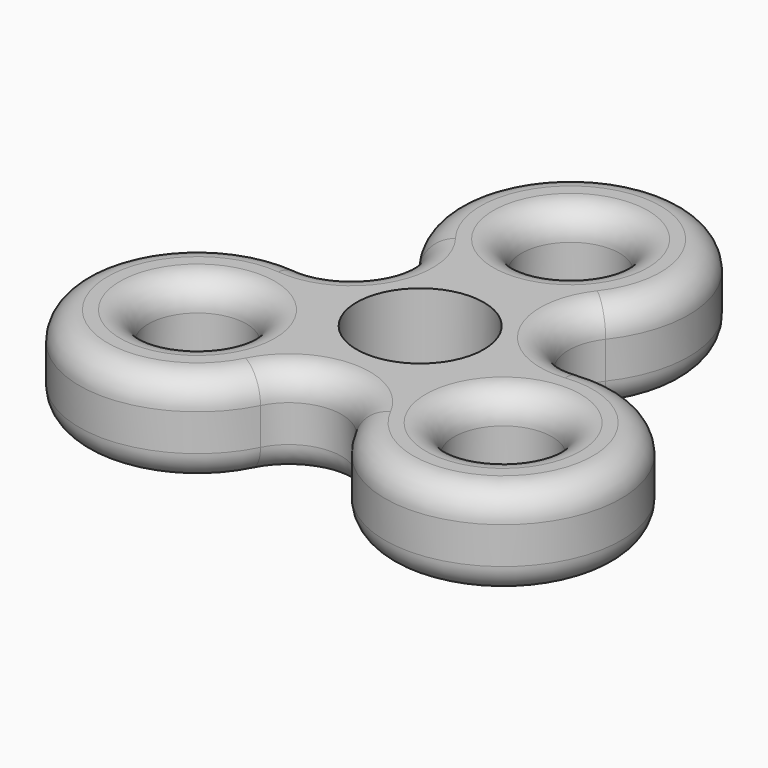
from build123d import *

# Parameters (mm, degrees)
F0_R     = 8.788788
F0_R_2   = 11.418333
F1_DEPTH = 16.764
F2_R     = 5.08
F3_R     = 5.08


with BuildPart() as f1:
    # F0 (on Top) → F1 (new body)
    with BuildSketch(Plane.XY):
        with BuildLine():
            ThreePointArc((25.195273, -9.435075), (15.911037, -4.603877), (16.722326, 5.830648))
            ThreePointArc((16.722326, 5.830648), (0, 40.058313), (-16.722326, 5.830648))
            ThreePointArc((-16.722326, 5.830648), (-15.911037, -4.603877), (-25.195273, -9.435075))
            ThreePointArc((-25.195273, -9.435075), (-46.011034, -40.679336), (-8.472947, -40.053467))
            ThreePointArc((-8.472947, -40.053467), (0, -34.833829), (8.472947, -40.053467))
            ThreePointArc((8.472947, -40.053467), (46.011034, -40.679336), (25.195273, -9.435075))
        make_face()
        with Locations((-27.406188, -30.518243)):
            Circle(F0_R, mode=Mode.SUBTRACT)
        with Locations((0, -14.857566)):
            Circle(F0_R_2, mode=Mode.SUBTRACT)
        with Locations((27.406188, -30.518243)):
            Circle(F0_R, mode=Mode.SUBTRACT)
        with Locations((0, 18.859537)):
            Circle(F0_R, mode=Mode.SUBTRACT)
    extrude(amount=F1_DEPTH)

    # F2
    f2_edges = [f1.edges().sort_by_distance(p)[0] for p in [
        (0, 40.058313, 16.764),
        (46.011034, -40.679336, 0),
    ]]
    fillet(f2_edges, radius=F2_R)

    # F3
    f3_edges = [f1.edges().sort_by_distance(p)[0] for p in [
        (-36.194976, -30.518243, 0),
        (18.6174, -30.518243, 0),
        (-8.788788, 18.859537, 0),
        (-36.194976, -30.518243, 16.764),
        (-8.788788, 18.859537, 16.764),
        (18.6174, -30.518243, 16.764),
    ]]
    fillet(f3_edges, radius=F3_R)


solid = f1.part
